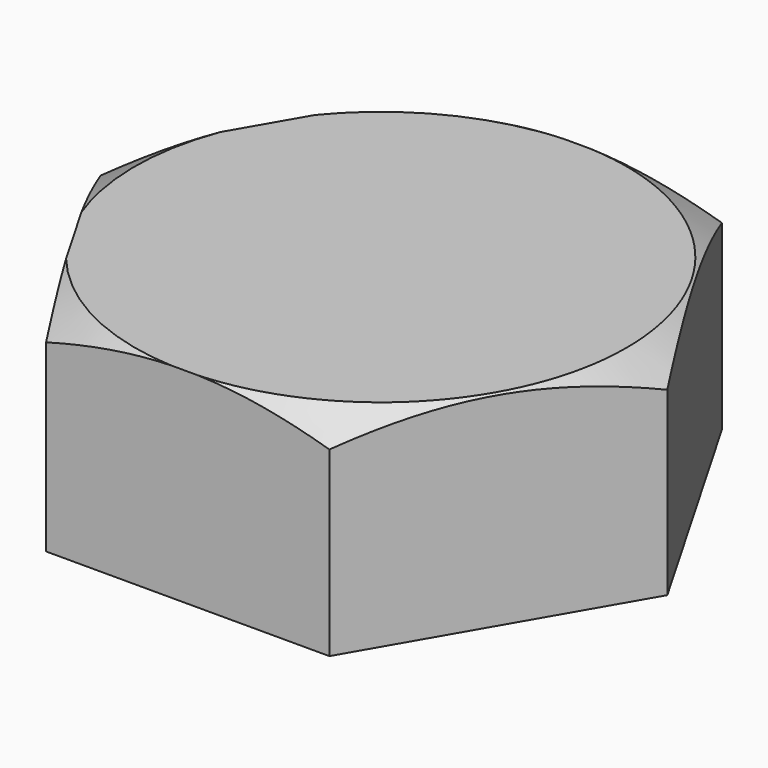
from build123d import *

# Parameters (mm, degrees)
F1_DEPTH = 25


with BuildPart() as f1:
    # F0 (on Top) → F1 (new body)
    with BuildSketch(Plane.XY):
        Polygon((17.320508, 30), (-17.320508, 30), (-34.641016, 0), (-17.320508, -30), (17.320508, -30), (34.641016, 0), align=None)
    extrude(amount=F1_DEPTH)

    # F2 (on Front) → F3 (revolve, cut)
    with BuildSketch(Plane.XZ):
        Polygon((34.641016, 22.113249), (34.641016, 25), (29.641016, 25), align=None)
    revolve(axis=Axis((-0.115662, 0, 18.696133), (0.006201, 0, 0.999981)), mode=Mode.SUBTRACT)


solid = f1.part
